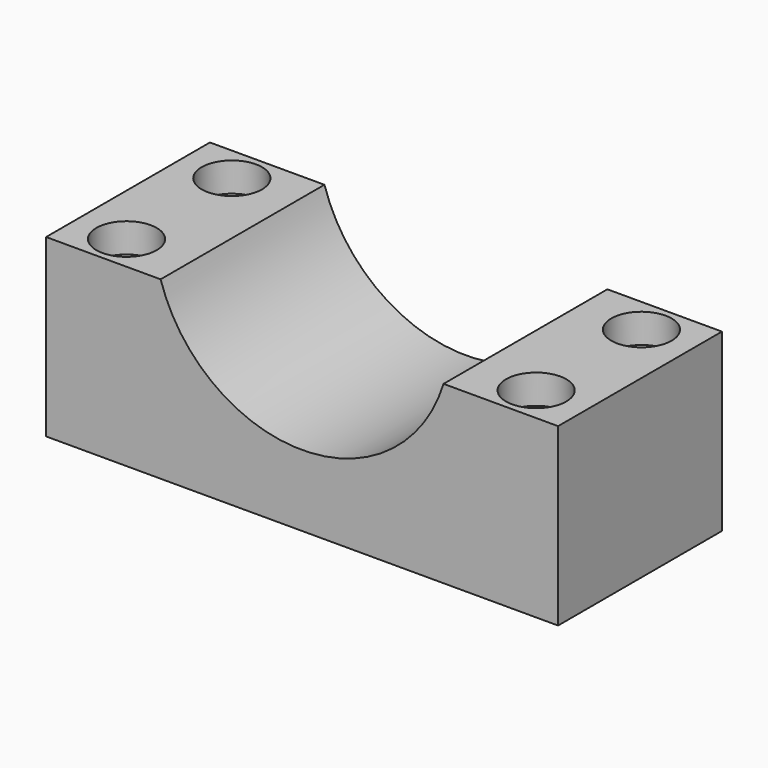
from build123d import *

# Parameters (mm, degrees)
F1_DEPTH       = 28
F3_D           = 4.4
F3_CBORE_D     = 8.25
F3_CBORE_DEPTH = 4


with BuildPart() as f1:
    # F0 (on Front) → F1 (new body)
    with BuildSketch(Plane.XZ):
        with BuildLine():
            Line((-35, -15), (35, -15))
            Line((35, -15), (35, 9))
            Line((35, 9), (19.3406954373, 9))
            ThreePointArc((19.3406954373, 9), (0, -5.25), (-19.3406954373, 9))
            Line((-19.3406954373, 9), (-35, 9))
            Line((-35, 9), (-35, -15))
        make_face()
    extrude(amount=F1_DEPTH)

    # F3 (through all)
    with Locations(Plane.XY.offset(9)):
        with Locations((-28, -5), (-28, -23), (28, -23), (28, -5)):
            CounterBoreHole(F3_D / 2, F3_CBORE_D / 2, F3_CBORE_DEPTH)


solid = f1.part
